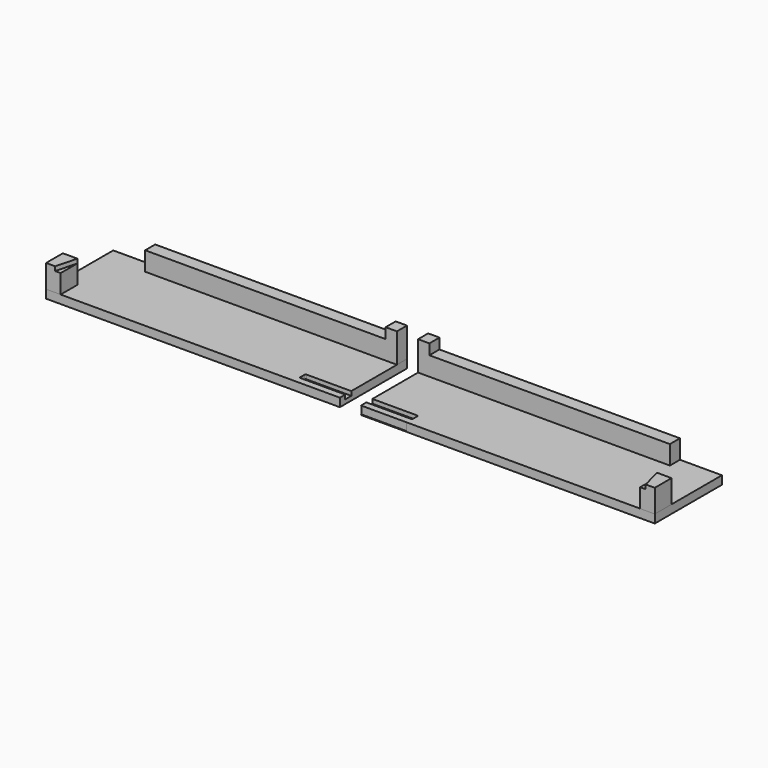
from build123d import *

# Parameters (mm, degrees)
F0_W            = 730
F0_H            = 200
F1_DEPTH        = 20
F2_W            = 600
F2_H            = 30
F3_DEPTH        = 45
F4_W            = 27
F4_H            = 30
F5_DEPTH        = 25
F6_W            = 54.7
F6_H            = 50
F7_DEPTH        = 45
F9_DEPTH        = 10
F11_DEPTH       = 10
F13_D           = 4.2
F13_CSINK_D     = 5.5
F13_CSINK_ANGLE = 90
F14_W           = 20
F14_H           = 50
F15_DEPTH       = 75.001
F18_W           = 109
F18_H           = 18
F19_DEPTH       = 1


with BuildPart() as f1:
    # F0 (on Top) → F1 (new body)
    with BuildSketch(Plane.XY):
        with Locations((-310.177372545, 88.43071796)):
            Rectangle(F0_W, F0_H)
    extrude(amount=F1_DEPTH)

    # F10 (on face) → F11 (cut)
    with BuildSketch(Plane.XY.offset(20)):
        with BuildLine():
            Line((54.822627455, 4.43071796), (54.822627455, 22.43071796))
            Line((54.822627455, 22.43071796), (-52.177372545, 22.43071796))
            ThreePointArc((-52.177372545, 22.43071796), (-53.5915861074, 21.8449315224), (-54.177372545, 20.43071796))
            Line((-54.177372545, 20.43071796), (-54.177372545, 6.43071796))
            ThreePointArc((-54.177372545, 6.43071796), (-53.5915861074, 5.0165043976), (-52.177372545, 4.43071796))
            Line((-52.177372545, 4.43071796), (54.822627455, 4.43071796))
        make_face()
    extrude(amount=-F11_DEPTH, mode=Mode.SUBTRACT)

    # F13 (through all)
    with Locations(Plane.XY.offset(10)):
        with Locations((4.822627455, 13.43071796)):
            CounterSinkHole(F13_D / 2, F13_CSINK_D / 2, counter_sink_angle=F13_CSINK_ANGLE)


with BuildPart() as f3:
    # F2 (on face) → F3 (new body)
    with BuildSketch(Plane.XY.offset(20)):
        with Locations((-245.177372545, 173.43071796)):
            Rectangle(F2_W, F2_H)
    extrude(amount=F3_DEPTH)

    # F4 (on face) → F5 (join)
    with BuildSketch(Plane.XY.offset(65)):
        with Locations((41.322627455, 173.43071796)):
            Rectangle(F4_W, F4_H)
    extrude(amount=F5_DEPTH)


with BuildPart() as f7:
    # F6 (on face) → F7 (new body)
    with BuildSketch(Plane.XY.offset(20)):
        with Locations((-637.827372545, 13.43071796)):
            Rectangle(F6_W, F6_H)
    extrude(amount=F7_DEPTH)

    # F8 (on face) → F9 (join)
    with BuildSketch(Plane.XY.offset(65)):
        Polygon((-610.477372545, 38.43071796), (-665.177372545, 38.43071796), (-665.177372545, -11.56928204), (-623.577372545, -11.56928204), align=None)
    extrude(amount=F9_DEPTH)


with BuildPart() as f15_tool:
    # F14 (on face) → F15 (new body, through all)
    with BuildSketch(Plane.XY.offset(75)):
        Polygon((-645.177372545, 305.616747176), (-700.3073955111, 305.616747176), (-700.3073955111, -131.4291577393), (-645.177372545, -131.4291577393), (-645.177372545, -11.56928204), (-665.177372545, -11.56928204), (-665.177372545, 38.43071796), (-645.177372545, 38.43071796), align=None)
        with Locations((-655.177372545, 13.43071796)):
            Rectangle(F14_W, F14_H)
    extrude(amount=-F15_DEPTH)


with BuildPart() as f1_1:
    add(f1.part)

    # F15: cut by f15_tool
    add(f15_tool.part, mode=Mode.SUBTRACT)


with BuildPart() as f7_1:
    add(f7.part)

    # F15: cut by f15_tool
    add(f15_tool.part, mode=Mode.SUBTRACT)


with BuildPart() as f17_1:
    # F17: instance of F1
    add(f1_1.part.mirror(Plane.YZ.offset(80)))

    # F18 (on face) → F19 (cut)
    with BuildSketch(Plane.XZ.offset(11.56928204)):
        with Locations((159.677372545, 10)):
            Rectangle(F18_W, F18_H)
    extrude(amount=-F19_DEPTH, mode=Mode.SUBTRACT)


with BuildPart() as f17_2:
    # F17: instance of F3
    add(f3.part.mirror(Plane.YZ.offset(80)))


with BuildPart() as f17_3:
    # F17: instance of F7
    add(f7_1.part.mirror(Plane.YZ.offset(80)))


solid = Compound([f3.part, f1_1.part, f7_1.part, f17_1.part, f17_2.part, f17_3.part])
